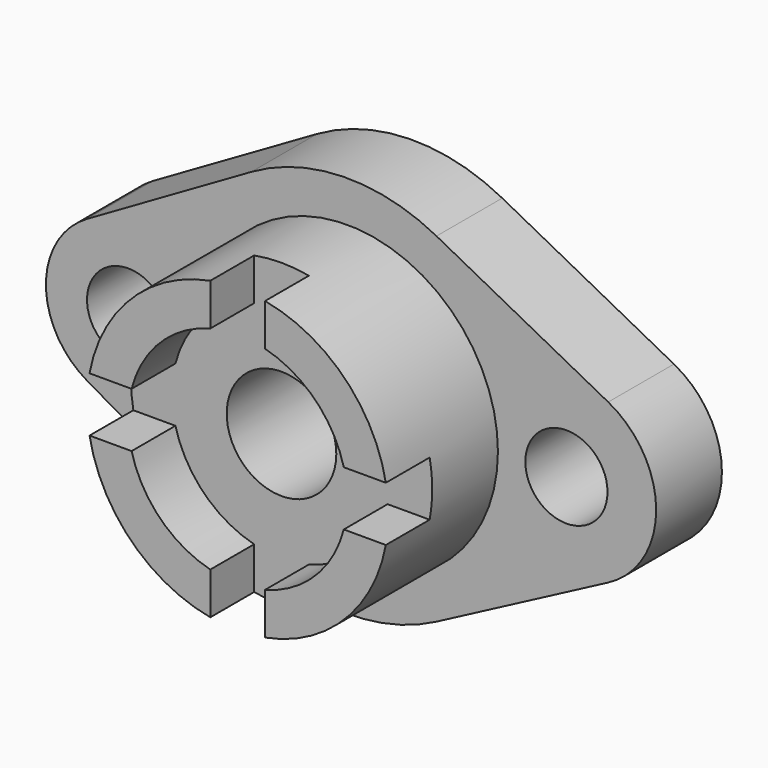
from build123d import *

# Parameters (mm, degrees)
F0_R     = 9.525
F0_R_2   = 12.7
F1_DEPTH = 19.05
F2_R     = 34.925
F2_R_2   = 12.7
F3_DEPTH = 19.05
F4_R     = 34.925
F4_R_2   = 25.4
F5_DEPTH = 12.7
F7_DEPTH = 12.7


with BuildPart() as f1:
    # F0 (on Front) → F1 (new body)
    with BuildSketch(Plane.XZ):
        with BuildLine():
            Line((-60.325, -16.497784), (-22.225, -38.494829))
            ThreePointArc((-22.225, -38.494829), (-0.877898, -44.44133), (20.687394, -39.342524))
            Line((20.687394, -39.342524), (60.483871, -18.416429))
            ThreePointArc((60.483871, -18.416429), (71.607263, 0), (60.483871, 18.416429))
            Line((60.483871, 18.416429), (20.687394, 39.342524))
            ThreePointArc((20.687394, 39.342524), (-0.877898, 44.44133), (-22.225, 38.494829))
            Line((-22.225, 38.494829), (-60.325, 16.497784))
            ThreePointArc((-60.325, 16.497784), (-69.85, 0), (-60.325, -16.497784))
        make_face()
        with Locations((-50.8, 0)):
            Circle(F0_R, mode=Mode.SUBTRACT)
        Circle(F0_R_2, mode=Mode.SUBTRACT)
        with Locations((50.8, 0)):
            Circle(F0_R, mode=Mode.SUBTRACT)
    extrude(amount=F1_DEPTH)

    # F2 (on face) → F3 (join)
    with BuildSketch(Plane.XZ.offset(19.05)):
        Circle(F2_R)
        Circle(F2_R_2, mode=Mode.SUBTRACT)
    extrude(amount=F3_DEPTH)

    # F4 (on face) → F5 (join)
    with BuildSketch(Plane.XZ.offset(38.1)):
        Circle(F4_R)
        Circle(F4_R_2, mode=Mode.SUBTRACT)
    extrude(amount=F5_DEPTH)

    # F6 (on face) → F7 (cut)
    with BuildSketch(Plane.XZ.offset(50.8)):
        with BuildLine():
            Line((-6.35, 34.342876), (-6.35, 24.593444))
            ThreePointArc((-6.35, 24.593444), (0, 25.4), (6.35, 24.593444))
            Line((6.35, 24.593444), (6.35, 34.342876))
            ThreePointArc((6.35, 34.342876), (0, 34.925), (-6.35, 34.342876))
        make_face()
        with BuildLine():
            Line((34.342876, 6.35), (24.593444, 6.35))
            ThreePointArc((24.593444, 6.35), (25.4, 0), (24.593444, -6.35))
            Line((24.593444, -6.35), (34.342876, -6.35))
            ThreePointArc((34.342876, -6.35), (34.925, 0), (34.342876, 6.35))
        make_face()
        with BuildLine():
            Line((6.35, -34.342876), (6.35, -24.593444))
            ThreePointArc((6.35, -24.593444), (0, -25.4), (-6.35, -24.593444))
            Line((-6.35, -24.593444), (-6.35, -34.342876))
            ThreePointArc((-6.35, -34.342876), (0, -34.925), (6.35, -34.342876))
        make_face()
        with BuildLine():
            Line((-34.342876, -6.35), (-24.593444, -6.35))
            ThreePointArc((-24.593444, -6.35), (-25.4, 0), (-24.593444, 6.35))
            Line((-24.593444, 6.35), (-34.342876, 6.35))
            ThreePointArc((-34.342876, 6.35), (-34.925, 0), (-34.342876, -6.35))
        make_face()
    extrude(amount=-F7_DEPTH, mode=Mode.SUBTRACT)


solid = f1.part
